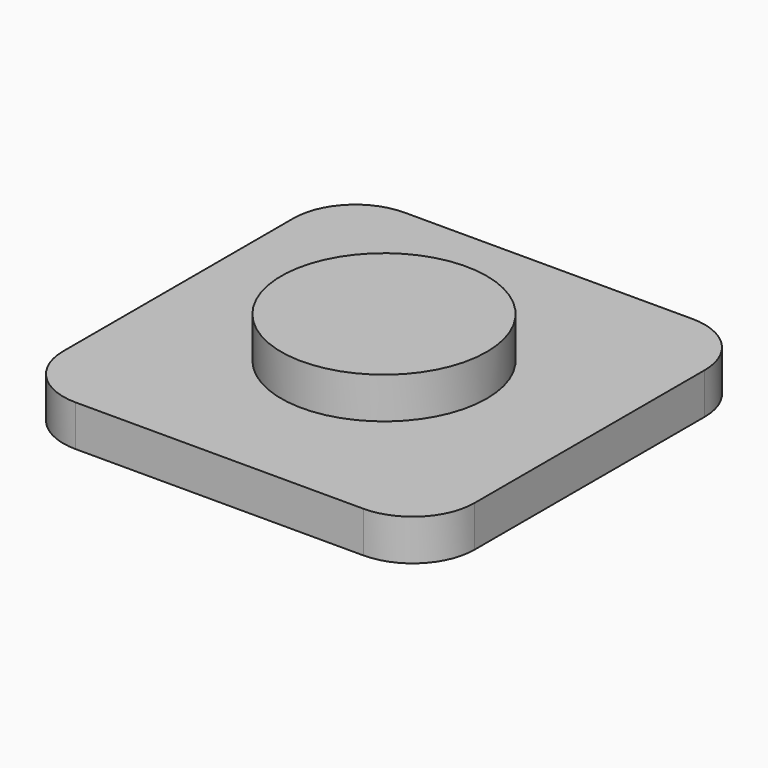
from build123d import *

# Parameters (mm, degrees)
PAD_DEPTH    = 80
SKETCH001_R  = 200
PAD001_DEPTH = 80


with BuildPart() as part:
    # Sketch → Pad (new body)
    with BuildSketch(Plane.XY):
        with BuildLine():
            Line((-400, 280), (-400, -280))
            ThreePointArc((-400, -280), (-364.852814, -364.852814), (-280, -400))
            Line((-280, -400), (280, -400))
            ThreePointArc((280, -400), (364.852814, -364.852814), (400, -280))
            Line((400, -280), (400, 280))
            ThreePointArc((400, 280), (364.852814, 364.852814), (280, 400))
            Line((280, 400), (-280, 400))
            ThreePointArc((-280, 400), (-364.852814, 364.852814), (-400, 280))
        make_face()
    extrude(amount=PAD_DEPTH)

    # Sketch001 (on Face10 of Pad) → Pad001 (join)
    with BuildSketch(Plane.XY.offset(80)):
        Circle(SKETCH001_R)
    extrude(amount=PAD001_DEPTH)


solid = part.part
